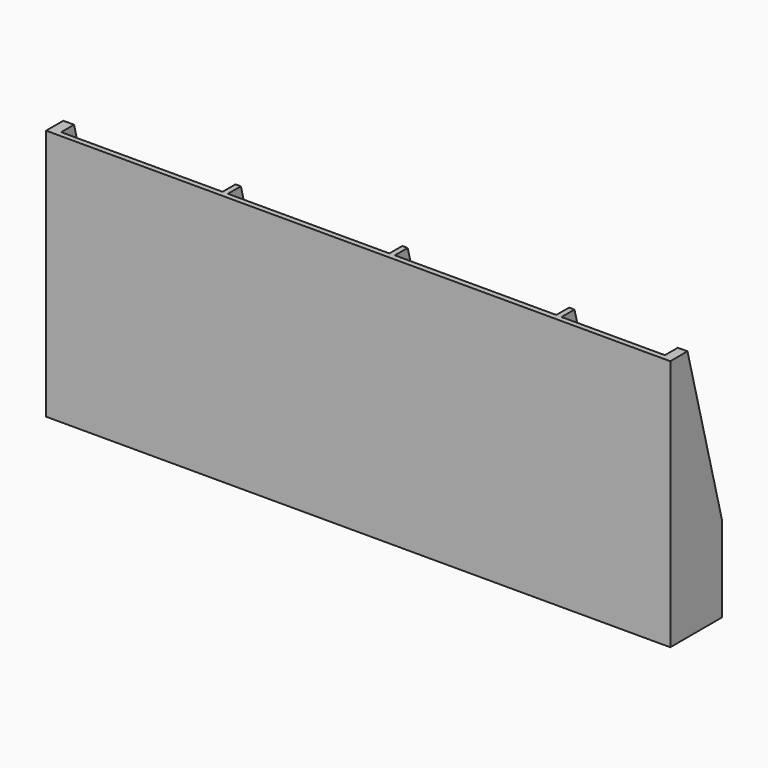
from build123d import *

# Parameters (mm, degrees)
BOX_W                              = 290
BOX_H                              = 30
BOX_DEPTH                          = 117
SKETCH_W                           = 75
SKETCH_H                           = 23.820949
SKETCH_W_2                         = 48
POCKET_DEPTH                       = 115.5
POCKET001_DEPTH                    = 350
SKETCH002_W                        = 75
SKETCH002_H                        = 5
POCKET002_DEPTH                    = 5
SKETCH002_LINEARPATTERN001_2_W     = 75
SKETCH002_LINEARPATTERN001_2_H     = 5
POCKET002_LINEARPATTERN001_2_DEPTH = 5
SKETCH002_LINEARPATTERN001_3_W     = 75
SKETCH002_LINEARPATTERN001_3_H     = 5
POCKET002_LINEARPATTERN001_3_DEPTH = 5
LINEARPATTERN002_COUNT             = 3
LINEARPATTERN002_PITCH             = 8.5


with BuildPart() as part:
    # Box → Box (new body)
    with BuildSketch(Plane.XY):
        with Locations((145, 15)):
            Rectangle(BOX_W, BOX_H)
    extrude(amount=BOX_DEPTH)

    # Sketch (on Face6 of BaseFeature) → Pocket (cut)
    with BuildSketch(Plane.XY.offset(117)):
        with Locations((42.5, 14.410474)):
            Rectangle(SKETCH_W, SKETCH_H)
        with Locations((120, 14.410474)):
            Rectangle(SKETCH_W, SKETCH_H)
        with Locations((197.5, 14.481185)):
            Rectangle(SKETCH_W, SKETCH_H)
        with Locations((261.5, 14.410474)):
            Rectangle(SKETCH_W_2, SKETCH_H)
    extrude(amount=-POCKET_DEPTH, mode=Mode.SUBTRACT)

    # Sketch001 → Pocket001 (cut)
    with BuildSketch(Plane.YZ.offset(314)):
        Polygon((10, 117), (30, 40), (40, 120), align=None)
    extrude(amount=-POCKET001_DEPTH, mode=Mode.SUBTRACT)

    # Sketch002 (on Face5 of Pocket001) → Pocket002 (cut)
    with BuildSketch(Plane(origin=(0, 0, 0), x_dir=(1, 0, 0), z_dir=(0, 0, -1))):
        with Locations((40, -5)):
            Rectangle(SKETCH002_W, SKETCH002_H)
    pocket002 = extrude(amount=-POCKET002_DEPTH, mode=Mode.SUBTRACT)

    # Sketch002 LinearPattern001 2 → Pocket002 LinearPattern001 2 (cut)
    with BuildSketch(Plane(origin=(105, 0, 0), x_dir=(1, 0, 0), z_dir=(0, 0, -1))):
        with Locations((40, -5)):
            Rectangle(SKETCH002_LINEARPATTERN001_2_W, SKETCH002_LINEARPATTERN001_2_H)
    pocket002_linearpattern001_2 = extrude(amount=-POCKET002_LINEARPATTERN001_2_DEPTH, mode=Mode.SUBTRACT)

    # Sketch002 LinearPattern001 3 → Pocket002 LinearPattern001 3 (cut)
    with BuildSketch(Plane(origin=(210, 0, 0), x_dir=(1, 0, 0), z_dir=(0, 0, -1))):
        with Locations((40, -5)):
            Rectangle(SKETCH002_LINEARPATTERN001_3_W, SKETCH002_LINEARPATTERN001_3_H)
    pocket002_linearpattern001_3 = extrude(amount=-POCKET002_LINEARPATTERN001_3_DEPTH, mode=Mode.SUBTRACT)

    # LinearPattern002: Pocket002, Pocket002 LinearPattern001 2, Pocket002 LinearPattern001 3 ×3
    with Locations(*[(0, i * LINEARPATTERN002_PITCH, 0) for i in range(1, LINEARPATTERN002_COUNT)]):
        add(pocket002, mode=Mode.SUBTRACT)
        add(pocket002_linearpattern001_2, mode=Mode.SUBTRACT)
        add(pocket002_linearpattern001_3, mode=Mode.SUBTRACT)


solid = part.part
